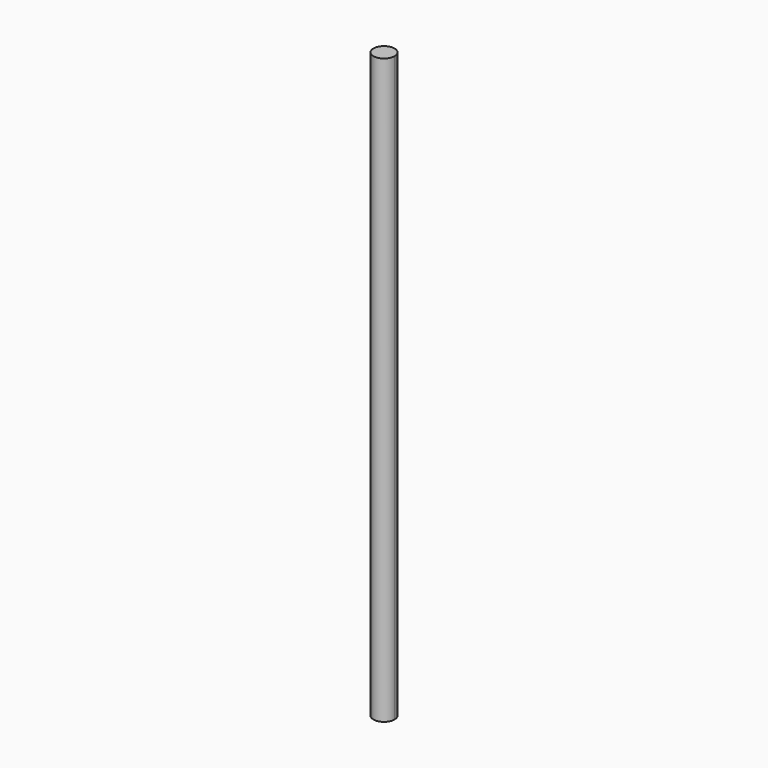
from build123d import *

# Parameters (mm, degrees)
F1_DEPTH = 91.44


with BuildPart() as f1:
    # F0 (on Top) → F1 (new body)
    with BuildSketch(Plane.XY):
        with BuildLine():
            ThreePointArc((0, 1.651), (-1.167433, -1.167433), (1.651, 0))
            ThreePointArc((1.651, 0), (1.167433, 1.167433), (0, 1.651))
        make_face()
    extrude(amount=F1_DEPTH)


solid = f1.part
